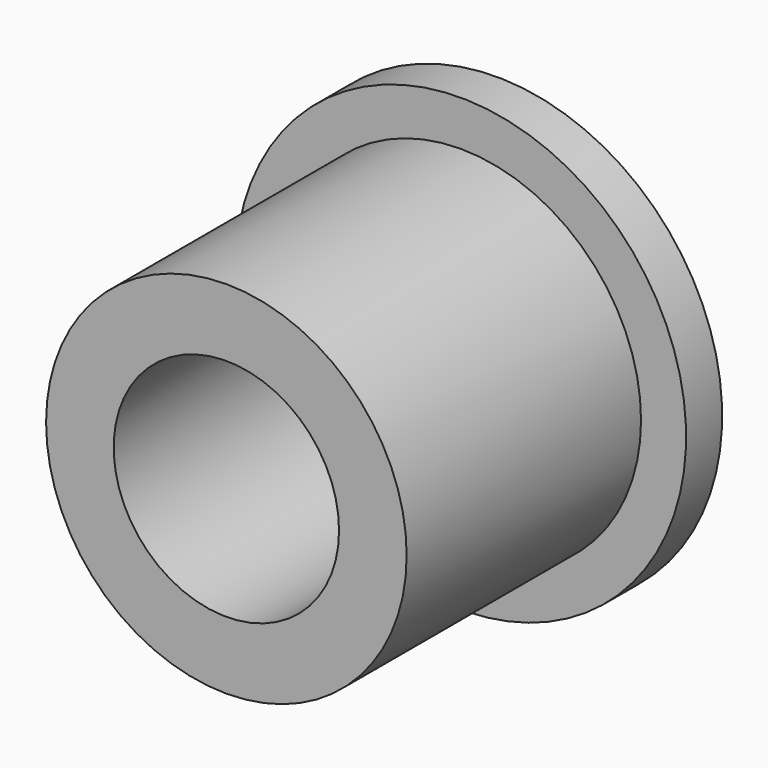
from build123d import *

# Parameters (mm, degrees)
F0_R     = 8
F0_R_2   = 5
F1_DEPTH = 13
F2_R     = 10
F2_R_2   = 5
F3_DEPTH = 2


with BuildPart() as f1:
    # F0 (on Front) → F1 (new body)
    with BuildSketch(Plane.XZ):
        Circle(F0_R)
        Circle(F0_R_2, mode=Mode.SUBTRACT)
    extrude(amount=F1_DEPTH)

    # F2 (on face) → F3 (join)
    with BuildSketch(Plane(origin=(0, 0, 0), x_dir=(-1, 0, 0), z_dir=(0, 1, 0))):
        Circle(F2_R)
        Circle(F2_R_2, mode=Mode.SUBTRACT)
    extrude(amount=F3_DEPTH)


solid = f1.part
